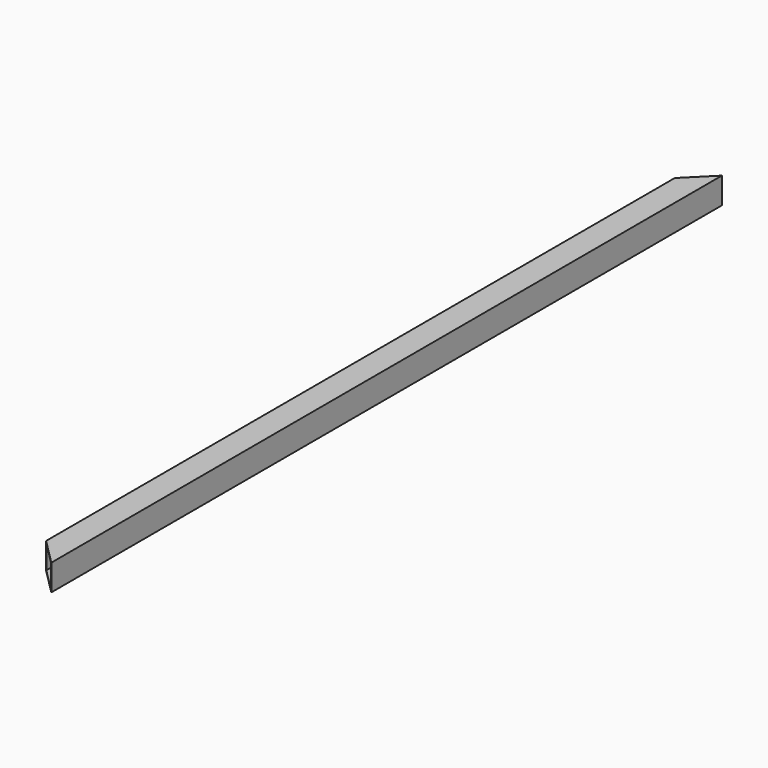
from build123d import *

# Parameters (mm, degrees)
F0_W     = 50
F0_H     = 50
F0_W_2   = 46
F0_H_2   = 46
F1_DEPTH = 1600
F3_DEPTH = 50
F4_DEPTH = 50


with BuildPart() as f1:
    # F0 (on Front) → F1 (new body)
    with BuildSketch(Plane.XZ):
        with Locations((25, 25)):
            Rectangle(F0_W, F0_H)
        with Locations((25, 25)):
            Rectangle(F0_W_2, F0_H_2, mode=Mode.SUBTRACT)
    extrude(amount=F1_DEPTH)

    # F2 (on face) → F3 (cut)
    with BuildSketch(Plane.XY.offset(50)):
        Polygon((50, 0), (0, 0), (0, -50), align=None)
    extrude(amount=-F3_DEPTH, mode=Mode.SUBTRACT)

    # F2 (on face) → F4 (cut)
    with BuildSketch(Plane.XY.offset(50)):
        Polygon((50, 0), (0, 0), (0, -50), align=None)
        Polygon((0, -1550), (0, -1600), (50, -1600), align=None)
    extrude(amount=-F4_DEPTH, mode=Mode.SUBTRACT)


solid = f1.part
